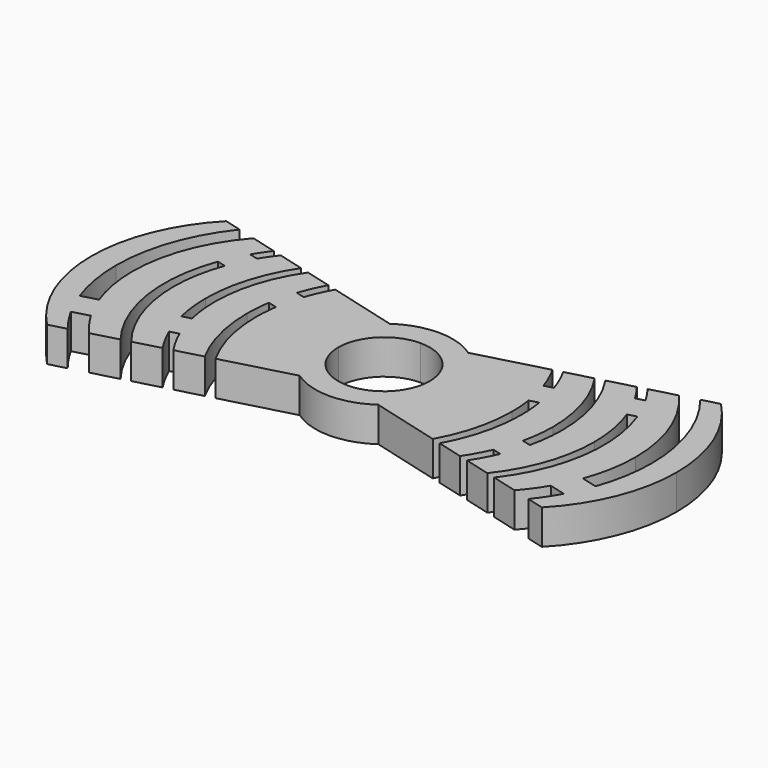
from build123d import *

# Parameters (mm, degrees)
F1_DEPTH = 4.826
F3_DEPTH = 25.4


with BuildPart() as f1:
    # F0 (on Top) → F1 (new body)
    with BuildSketch(Plane.XY):
        with BuildLine():
            Line((9.525, 0), (6.35, 0))
            ThreePointArc((6.35, 0), (4.4901280605, -4.4901280605), (0, -6.35))
            Line((0, -6.35), (5.4514567473, -7.810713433))
            ThreePointArc((5.4514567473, -7.810713433), (8.4454351729, -4.4045714594), (9.525, 0))
        make_face()
        with BuildLine():
            ThreePointArc((0, 6.35), (4.4901280605, 4.4901280605), (6.35, 0))
            Line((6.35, 0), (9.525, 0))
            ThreePointArc((9.525, 0), (8.4454351729, 4.4045714594), (5.4514567473, 7.810713433))
            Line((5.4514567473, 7.810713433), (0, 6.35))
        make_face()
        with BuildLine():
            Line((-5.4514567473, 7.810713433), (0, 6.35))
            Line((0, 6.35), (5.4514567473, 7.810713433))
            ThreePointArc((5.4514567473, 7.810713433), (0, 9.525), (-5.4514567473, 7.810713433))
        make_face()
        with BuildLine():
            ThreePointArc((-6.35, 0), (-4.4901280605, 4.4901280605), (0, 6.35))
            Line((0, 6.35), (-5.4514567473, 7.810713433))
            ThreePointArc((-5.4514567473, 7.810713433), (-8.4454351729, 4.4045714594), (-9.525, 0))
            Line((-9.525, 0), (-6.35, 0))
        make_face()
        with BuildLine():
            Line((-5.4514567473, -7.810713433), (0, -6.35))
            ThreePointArc((0, -6.35), (-4.4901280605, -4.4901280605), (-6.35, 0))
            Line((-6.35, 0), (-9.525, 0))
            ThreePointArc((-9.525, 0), (-8.4454351729, -4.4045714594), (-5.4514567473, -7.810713433))
        make_face()
        with BuildLine():
            Line((5.4514567473, -7.810713433), (0, -6.35))
            Line((0, -6.35), (-5.4514567473, -7.810713433))
            ThreePointArc((-5.4514567473, -7.810713433), (0, -9.525), (5.4514567473, -7.810713433))
        make_face()
        with BuildLine():
            Line((40.64, 0), (9.525, 0))
            ThreePointArc((9.525, 0), (8.4454351729, -4.4045714594), (5.4514567473, -7.810713433))
            Line((5.4514567473, -7.810713433), (34.3483223828, -15.5536052438))
            ThreePointArc((34.3483223828, -15.5536052438), (39.0075163, -8.3889785332), (40.64, 0))
        make_face()
        with BuildLine():
            ThreePointArc((5.4514567473, 7.810713433), (8.4454351729, 4.4045714594), (9.525, 0))
            Line((9.525, 0), (40.64, 0))
            ThreePointArc((40.64, 0), (39.0075163, 8.3889785332), (34.3483223828, 15.5536052438))
            Line((34.3483223828, 15.5536052438), (5.4514567473, 7.810713433))
        make_face()
        with BuildLine():
            ThreePointArc((-9.525, 0), (-8.4454351729, 4.4045714594), (-5.4514567473, 7.810713433))
            Line((-5.4514567473, 7.810713433), (-34.3483223828, 15.5536052438))
            ThreePointArc((-34.3483223828, 15.5536052438), (-39.0075163, 8.3889785332), (-40.64, 0))
            Line((-40.64, 0), (-9.525, 0))
        make_face()
        with BuildLine():
            Line((-34.3483223828, -15.5536052438), (-5.4514567473, -7.810713433))
            ThreePointArc((-5.4514567473, -7.810713433), (-8.4454351729, -4.4045714594), (-9.525, 0))
            Line((-9.525, 0), (-40.64, 0))
            ThreePointArc((-40.64, 0), (-39.0075163, -8.3889785332), (-34.3483223828, -15.5536052438))
        make_face()
    extrude(amount=F1_DEPTH)

    # F2 (on face) → F3 (cut)
    with BuildSketch(Plane.XY.offset(4.826)):
        with BuildLine():
            ThreePointArc((-33.5923079354, -7.4622272885), (-34.5892118857, -3.7901485539), (-34.925, 0))
            Line((-34.925, 0), (-37.1971782011, 0))
            ThreePointArc((-37.1971782011, 0), (-36.846066564, -4.0871759774), (-35.8030202404, -8.0545858653))
            Line((-35.8030202404, -8.0545858653), (-33.5923079354, -7.4622272885))
        make_face()
        with BuildLine():
            Line((-37.1971782011, 0), (-34.925, 0))
            ThreePointArc((-34.925, 0), (-33.5317746734, 7.6242904379), (-29.532176449, 14.2631228302))
            Line((-29.532176449, 14.2631228302), (-31.9856280478, 14.9205232048))
            ThreePointArc((-31.9856280478, 14.9205232048), (-35.8568057684, 7.9022507507), (-37.1971782011, 0))
        make_face()
        with BuildLine():
            Line((-31.9856280478, -14.9205232048), (-29.532176449, -14.2631228302))
            ThreePointArc((-29.532176449, -14.2631228302), (-30.8095695693, -12.6690899076), (-31.930357985, -10.9613113888))
            Line((-31.930357985, -10.9613113888), (-34.2169264562, -11.5739955641))
            ThreePointArc((-34.2169264562, -11.5739955641), (-33.1716116897, -13.294154894), (-31.9856280478, -14.9205232048))
        make_face()
        with BuildLine():
            ThreePointArc((-24.7160305152, -12.9726404166), (-28.0546836255, -6.8644949033), (-29.21, 0))
            Line((-29.21, 0), (-30.48, 0))
            ThreePointArc((-30.48, 0), (-29.3144832952, -7.0269524355), (-25.9427563146, -13.3013406039))
            Line((-25.9427563146, -13.3013406039), (-24.7160305152, -12.9726404166))
        make_face()
        with BuildLine():
            ThreePointArc((-26.2436859957, 10.7523729707), (-25.5155620849, 11.887072721), (-24.7160305152, 12.9726404166))
            Line((-24.7160305152, 12.9726404166), (-25.9427563146, 13.3013406039))
            ThreePointArc((-25.9427563146, 13.3013406039), (-26.731347274, 12.2119381475), (-27.4511523902, 11.075912616))
            Line((-27.4511523902, 11.075912616), (-26.2436859957, 10.7523729707))
        make_face()
        with BuildLine():
            Line((-30.48, 0), (-29.21, 0))
            ThreePointArc((-29.21, 0), (-28.8836587626, 3.6852190858), (-27.9147918493, 7.2557421873))
            Line((-27.9147918493, 7.2557421873), (-29.1181427694, 7.5781790945))
            ThreePointArc((-29.1181427694, 7.5781790945), (-30.1368303905, 3.8497874456), (-30.48, 0))
        make_face()
        with BuildLine():
            Line((-24.765, 0), (-23.495, 0))
            ThreePointArc((-23.495, 0), (-22.5758928334, 6.1114169896), (-19.8998845814, 11.6821580031))
            Line((-19.8998845814, 11.6821580031), (-21.1266103808, 12.0108581903))
            ThreePointArc((-21.1266103808, 12.0108581903), (-23.8354414226, 6.2749221806), (-24.765, 0))
        make_face()
        with BuildLine():
            ThreePointArc((-22.975438781, -4.6174457724), (-23.3647011405, -2.3232923472), (-23.495, 0))
            Line((-23.495, 0), (-24.765, 0))
            ThreePointArc((-24.765, 0), (-24.6214878009, -2.4883246732), (-24.192854341, -4.9436512885))
            Line((-24.192854341, -4.9436512885), (-22.975438781, -4.6174457724))
        make_face()
        with BuildLine():
            Line((-21.1266103808, -12.0108581903), (-19.8998845814, -11.6821580031))
            ThreePointArc((-19.8998845814, -11.6821580031), (-20.9260158473, -10.0078144461), (-21.789494801, -8.2440752881))
            Line((-21.789494801, -8.2440752881), (-22.9970709968, -8.5676443545))
            ThreePointArc((-22.9970709968, -8.5676443545), (-22.1399215448, -10.3316672167), (-21.1266103808, -12.0108581903))
        make_face()
        with BuildLine():
            ThreePointArc((-15.0837386475, -10.3916755895), (-17.09495644, -5.3678847519), (-17.78, 0))
            Line((-17.78, 0), (-19.05, 0))
            ThreePointArc((-19.05, 0), (-18.354285684, -5.5324386992), (-16.3104644469, -10.7203757767))
            Line((-16.3104644469, -10.7203757767), (-15.0837386475, -10.3916755895))
        make_face()
        with BuildLine():
            Line((-19.05, 0), (-17.78, 0))
            ThreePointArc((-17.78, 0), (-17.7211105613, 1.5855193171), (-17.544766757, 3.1623015892))
            Line((-17.544766757, 3.1623015892), (-18.7754484951, 3.4920617671))
            ThreePointArc((-18.7754484951, 3.4920617671), (-18.9812563815, 1.75141899), (-19.05, 0))
        make_face()
        with BuildLine():
            Line((-17.8611435758, 7.1914767497), (-16.6471026371, 6.8661754606))
            ThreePointArc((-16.6471026371, 6.8661754606), (-15.9451000092, 8.6642589099), (-15.0837386475, 10.3916755895))
            Line((-15.0837386475, 10.3916755895), (-16.3104644469, 10.7203757767))
            ThreePointArc((-16.3104644469, 10.7203757767), (-17.1620380999, 8.9894252693), (-17.8611435758, 7.1914767497))
        make_face()
        with BuildLine():
            Line((19.05, 0), (17.78, 0))
            ThreePointArc((17.78, 0), (17.09495644, -5.3678847519), (15.0837386475, -10.3916755895))
            Line((15.0837386475, -10.3916755895), (16.3104644469, -10.7203757767))
            ThreePointArc((16.3104644469, -10.7203757767), (18.354285684, -5.5324386992), (19.05, 0))
        make_face()
        with BuildLine():
            ThreePointArc((17.544766757, 3.1623015892), (17.7211105613, 1.5855193171), (17.78, 0))
            Line((17.78, 0), (19.05, 0))
            ThreePointArc((19.05, 0), (18.9812563815, 1.75141899), (18.7754484951, 3.4920617671))
            Line((18.7754484951, 3.4920617671), (17.544766757, 3.1623015892))
        make_face()
        with BuildLine():
            ThreePointArc((15.0837386475, 10.3916755895), (15.9451000092, 8.6642589099), (16.6471026371, 6.8661754606))
            Line((16.6471026371, 6.8661754606), (17.8611435758, 7.1914767497))
            ThreePointArc((17.8611435758, 7.1914767497), (17.1620380999, 8.9894252693), (16.3104644469, 10.7203757767))
            Line((16.3104644469, 10.7203757767), (15.0837386475, 10.3916755895))
        make_face()
        with BuildLine():
            ThreePointArc((19.8998845814, 11.6821580031), (22.5758928334, 6.1114169896), (23.495, 0))
            Line((23.495, 0), (24.765, 0))
            ThreePointArc((24.765, 0), (23.8354414226, 6.2749221806), (21.1266103808, 12.0108581903))
            Line((21.1266103808, 12.0108581903), (19.8998845814, 11.6821580031))
        make_face()
        with BuildLine():
            Line((24.765, 0), (23.495, 0))
            ThreePointArc((23.495, 0), (23.3647011405, -2.3232923472), (22.975438781, -4.6174457724))
            Line((22.975438781, -4.6174457724), (24.192854341, -4.9436512885))
            ThreePointArc((24.192854341, -4.9436512885), (24.6214878009, -2.4883246732), (24.765, 0))
        make_face()
        with BuildLine():
            ThreePointArc((21.789494801, -8.2440752881), (20.9260158473, -10.0078144461), (19.8998845814, -11.6821580031))
            Line((19.8998845814, -11.6821580031), (21.1266103808, -12.0108581903))
            ThreePointArc((21.1266103808, -12.0108581903), (22.1399215448, -10.3316672167), (22.9970709968, -8.5676443545))
            Line((22.9970709968, -8.5676443545), (21.789494801, -8.2440752881))
        make_face()
        with BuildLine():
            Line((30.48, 0), (29.21, 0))
            ThreePointArc((29.21, 0), (28.0546836255, -6.8644949033), (24.7160305152, -12.9726404166))
            Line((24.7160305152, -12.9726404166), (25.9427563146, -13.3013406039))
            ThreePointArc((25.9427563146, -13.3013406039), (29.3144832952, -7.0269524355), (30.48, 0))
        make_face()
        with BuildLine():
            ThreePointArc((27.9147918493, 7.2557421873), (28.8836587626, 3.6852190858), (29.21, 0))
            Line((29.21, 0), (30.48, 0))
            ThreePointArc((30.48, 0), (30.1368303905, 3.8497874456), (29.1181427694, 7.5781790945))
            Line((29.1181427694, 7.5781790945), (27.9147918493, 7.2557421873))
        make_face()
        with BuildLine():
            Line((25.9427563146, 13.3013406039), (24.7160305152, 12.9726404166))
            ThreePointArc((24.7160305152, 12.9726404166), (25.5155620849, 11.887072721), (26.2436859957, 10.7523729707))
            Line((26.2436859957, 10.7523729707), (27.4511523902, 11.075912616))
            ThreePointArc((27.4511523902, 11.075912616), (26.731347274, 12.2119381475), (25.9427563146, 13.3013406039))
        make_face()
        with BuildLine():
            ThreePointArc((29.532176449, 14.2631228302), (33.5317746734, 7.6242904379), (34.925, 0))
            Line((34.925, 0), (37.1971782011, 0))
            ThreePointArc((37.1971782011, 0), (35.8568057684, 7.9022507507), (31.9856280478, 14.9205232048))
            Line((31.9856280478, 14.9205232048), (29.532176449, 14.2631228302))
        make_face()
        with BuildLine():
            Line((37.1971782011, 0), (34.925, 0))
            ThreePointArc((34.925, 0), (34.5892118857, -3.7901485539), (33.5923079354, -7.4622272885))
            Line((33.5923079354, -7.4622272885), (35.8030202404, -8.0545858653))
            ThreePointArc((35.8030202404, -8.0545858653), (36.846066564, -4.0871759774), (37.1971782011, 0))
        make_face()
        with BuildLine():
            ThreePointArc((31.930357985, -10.9613113888), (30.8095695693, -12.6690899076), (29.532176449, -14.2631228302))
            Line((29.532176449, -14.2631228302), (31.9856280478, -14.9205232048))
            ThreePointArc((31.9856280478, -14.9205232048), (33.1716116897, -13.294154894), (34.2169264562, -11.5739955641))
            Line((34.2169264562, -11.5739955641), (31.930357985, -10.9613113888))
        make_face()
    extrude(amount=-F3_DEPTH, mode=Mode.SUBTRACT)


solid = f1.part
